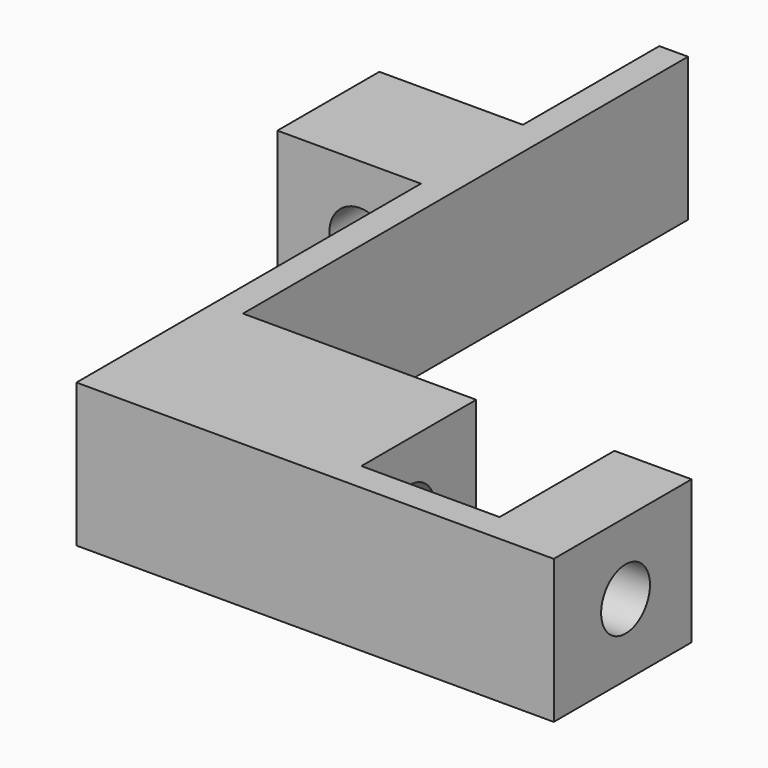
from build123d import *

# Parameters (mm, degrees)
PAD_DEPTH       = 8
SKETCH001_W     = 8
SKETCH001_H     = 9.5
SKETCH001_H_2   = 24
SKETCH001_W_2   = 7.7
SKETCH001_H_3   = 8
POCKET_DEPTH    = 9
SKETCH002_R     = 1.7
POCKET001_DEPTH = 9
SKETCH003_R     = 1.7
POCKET002_DEPTH = 35


with BuildPart() as part:
    # Sketch → Pad (new body)
    with BuildSketch(Plane.XY):
        Polygon((0, 0), (-34.6, 0), (-34.6, 40.6), (-25, 40.6), (-25, 9.6), (0, 9.6), align=None)
    extrude(amount=PAD_DEPTH)

    # Sketch001 → Pocket (cut)
    with BuildSketch(Plane.XY.offset(8)):
        with Locations((-30.6, 35.85)):
            Rectangle(SKETCH001_W, SKETCH001_H)
        with Locations((-30.6, 12)):
            Rectangle(SKETCH001_W, SKETCH001_H_2)
        with Locations((-8.15, 5.6)):
            Rectangle(SKETCH001_W_2, SKETCH001_H_3)
    extrude(amount=-POCKET_DEPTH, mode=Mode.SUBTRACT)

    # Sketch002 → Pocket001 (cut)
    with BuildSketch(Plane.XZ.offset(-24)):
        with Locations((-30, 4)):
            Circle(SKETCH002_R)
    extrude(amount=-POCKET001_DEPTH, mode=Mode.SUBTRACT)

    # Sketch003 → Pocket002 (cut)
    with BuildSketch(Plane.YZ):
        with Locations((5, 4)):
            Circle(SKETCH003_R)
    extrude(amount=-POCKET002_DEPTH, mode=Mode.SUBTRACT)


solid = part.part
